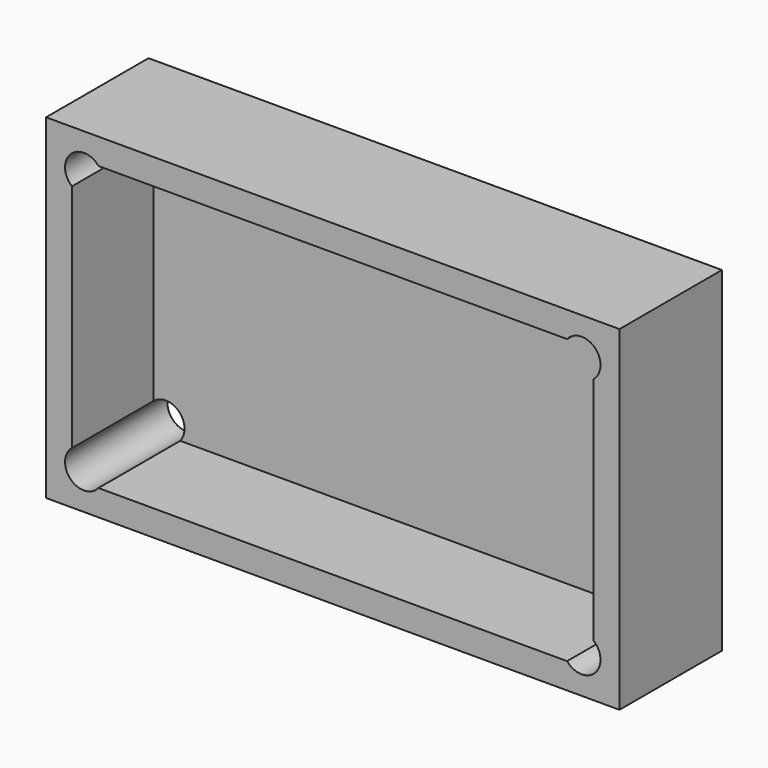
from build123d import *

# Parameters (mm, degrees)
F0_W     = 25.08
F0_H     = 14.66
F1_DEPTH = 5.6
F2_DEPTH = 1.13


with BuildPart() as f1:
    # F0 (on Front) → F1 (new body)
    with BuildSketch(Plane.XZ):
        Rectangle(F0_W, F0_H)
        with BuildLine():
            Line((-10.2486038969, 6.2), (10.2486038969, 6.2))
            ThreePointArc((10.2486038969, 6.2), (11.1639249137, 6.4514186323), (11.71, 5.675))
            ThreePointArc((11.71, 5.675), (11.6312405778, 5.323218818), (11.41, 5.0386038969))
            Line((11.41, 5.0386038969), (11.41, -5.0386038969))
            ThreePointArc((11.41, -5.0386038969), (11.6312405778, -5.323218818), (11.71, -5.675))
            ThreePointArc((11.71, -5.675), (11.1639249137, -6.4514186323), (10.2486038969, -6.2))
            Line((10.2486038969, -6.2), (-10.2486038969, -6.2))
            ThreePointArc((-10.2486038969, -6.2), (-11.4683630945, -6.2583630945), (-11.41, -5.0386038969))
            Line((-11.41, -5.0386038969), (-11.41, 5.0386038969))
            ThreePointArc((-11.41, 5.0386038969), (-11.4683630945, 6.2583630945), (-10.2486038969, 6.2))
        make_face(mode=Mode.SUBTRACT)
    extrude(amount=F1_DEPTH)

    # F0 (on Front) → F2 (join)
    with BuildSketch(Plane.XZ):
        Rectangle(F0_W, F0_H)
        with BuildLine():
            Line((-10.2486038969, 6.2), (10.2486038969, 6.2))
            ThreePointArc((10.2486038969, 6.2), (11.1639249137, 6.4514186323), (11.71, 5.675))
            ThreePointArc((11.71, 5.675), (11.6312405778, 5.323218818), (11.41, 5.0386038969))
            Line((11.41, 5.0386038969), (11.41, -5.0386038969))
            ThreePointArc((11.41, -5.0386038969), (11.6312405778, -5.323218818), (11.71, -5.675))
            ThreePointArc((11.71, -5.675), (11.1639249137, -6.4514186323), (10.2486038969, -6.2))
            Line((10.2486038969, -6.2), (-10.2486038969, -6.2))
            ThreePointArc((-10.2486038969, -6.2), (-11.4683630945, -6.2583630945), (-11.41, -5.0386038969))
            Line((-11.41, -5.0386038969), (-11.41, 5.0386038969))
            ThreePointArc((-11.41, 5.0386038969), (-11.4683630945, 6.2583630945), (-10.2486038969, 6.2))
        make_face(mode=Mode.SUBTRACT)
        with BuildLine():
            ThreePointArc((11.41, 5.0386038969), (10.3016369055, 5.0916369055), (10.2486038969, 6.2))
            Line((10.2486038969, 6.2), (-10.2486038969, 6.2))
            ThreePointArc((-10.2486038969, 6.2), (-10.1085813677, 5.9539249137), (-10.06, 5.675))
            ThreePointArc((-10.06, 5.675), (-10.533218818, 4.9287594222), (-11.41, 5.0386038969))
            Line((-11.41, 5.0386038969), (-11.41, -5.0386038969))
            ThreePointArc((-11.41, -5.0386038969), (-10.533218818, -4.9287594222), (-10.06, -5.675))
            ThreePointArc((-10.06, -5.675), (-10.1085813677, -5.9539249137), (-10.2486038969, -6.2))
            Line((-10.2486038969, -6.2), (10.2486038969, -6.2))
            ThreePointArc((10.2486038969, -6.2), (10.3016369055, -5.0916369055), (11.41, -5.0386038969))
            Line((11.41, -5.0386038969), (11.41, 5.0386038969))
        make_face()
    extrude(amount=F2_DEPTH)


solid = f1.part
